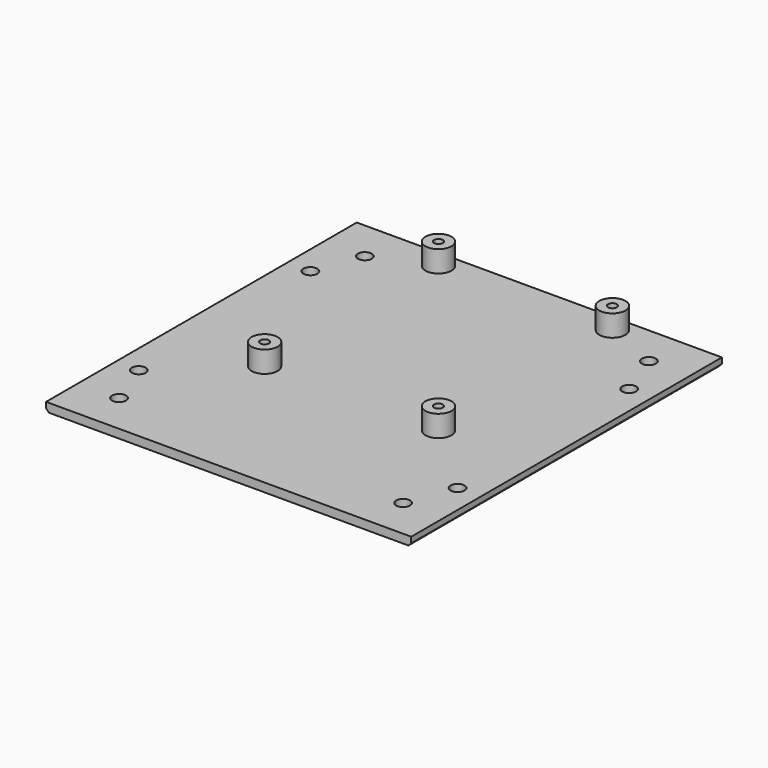
from build123d import *

# Parameters (mm, degrees)
SKETCH_W        = 126
SKETCH_H        = 134
SKETCH_R        = 2.4
PAD_DEPTH       = 3
SKETCH008_R     = 4.5
PAD005_DEPTH    = 7.4
SKETCH009_R     = 1.5
POCKET017_DEPTH = 10.401
CHAMFER015_SIZE = 1


with BuildPart() as part:
    # Sketch → Pad (new body)
    with BuildSketch(Plane.XY):
        Rectangle(SKETCH_W, SKETCH_H)
        with Locations((-49, 53)):
            Circle(SKETCH_R, mode=Mode.SUBTRACT)
        with Locations((49, 53)):
            Circle(SKETCH_R, mode=Mode.SUBTRACT)
        with Locations((-49, -53)):
            Circle(SKETCH_R, mode=Mode.SUBTRACT)
        with Locations((49, -53)):
            Circle(SKETCH_R, mode=Mode.SUBTRACT)
        with Locations((55, 37)):
            Circle(SKETCH_R, mode=Mode.SUBTRACT)
        with Locations((-55, 37)):
            Circle(SKETCH_R, mode=Mode.SUBTRACT)
        with Locations((-55, -37)):
            Circle(SKETCH_R, mode=Mode.SUBTRACT)
        with Locations((55, -37)):
            Circle(SKETCH_R, mode=Mode.SUBTRACT)
    extrude(amount=PAD_DEPTH)

    # Sketch008 (on Face14 of Pad) → Pad005 (join)
    with BuildSketch(Plane.XY.offset(3)):
        with Locations((-30, 61)):
            Circle(SKETCH008_R)
        with Locations((30, 61)):
            Circle(SKETCH008_R)
        with Locations((-30, -14)):
            Circle(SKETCH008_R)
        with Locations((30, -14)):
            Circle(SKETCH008_R)
    extrude(amount=PAD005_DEPTH)

    # Sketch009 (on Face22 of Pad005) → Pocket017 (cut, through all)
    with BuildSketch(Plane.XY.offset(10.4)):
        with Locations((-30, 61)):
            Circle(SKETCH009_R)
        with Locations((30, 61)):
            Circle(SKETCH009_R)
        with Locations((30, -14)):
            Circle(SKETCH009_R)
        with Locations((-30, -14)):
            Circle(SKETCH009_R)
    extrude(amount=-POCKET017_DEPTH, mode=Mode.SUBTRACT)

    # Chamfer015
    chamfer015_edges = [part.edges().sort_by_distance(p)[0] for p in [
        (-63, 0, 0),
        (63, 0, 0),
    ]]
    chamfer(chamfer015_edges, length=CHAMFER015_SIZE)


solid = part.part
